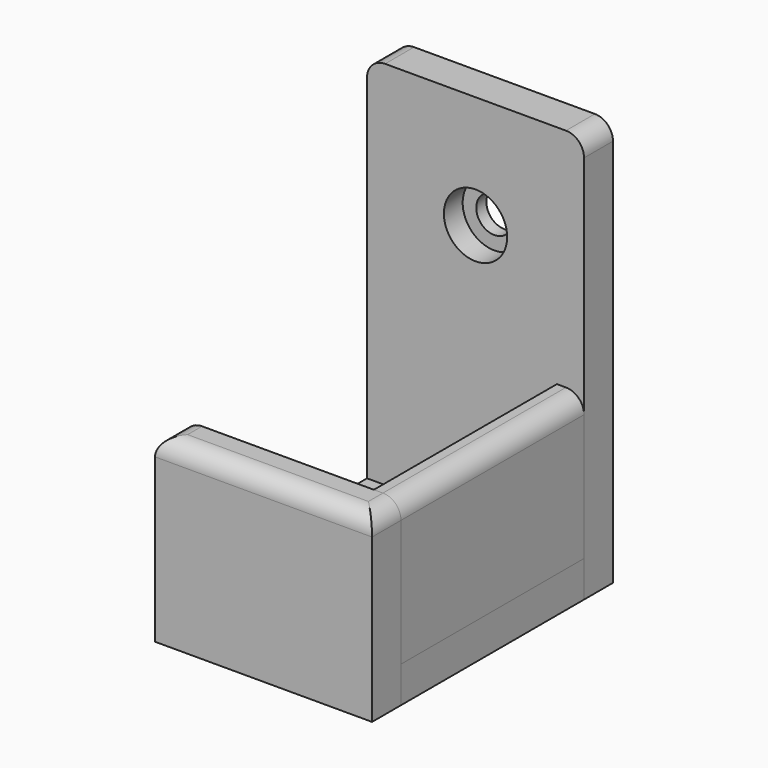
from build123d import *

# Parameters (mm, degrees)
F0_W      = 24
F0_H      = 33.3
F1_DEPTH  = 4
F2_W      = 24
F2_H      = 4
F3_DEPTH  = 45
F4_W      = 24
F4_H      = 4
F5_DEPTH  = 20
F6_R      = 2
F7_DEPTH  = 6
F8_R      = 3.5
F9_DEPTH  = 2.6
F10_R     = 2
F12_W     = 3
F12_H     = 25.3
F13_DEPTH = 16
F14_R     = 2
F14_2_R   = 2
F11_W     = 15
F11_H     = 15
F15_DEPTH = 6


with BuildPart() as f1:
    # F0 (on Top) → F1 (new body)
    with BuildSketch(Plane.XY):
        Rectangle(F0_W, F0_H)
    extrude(amount=F1_DEPTH)

    # F11 (on face) → F15 (cut)
    with BuildSketch(Plane.XY.offset(4)):
        with Locations((-9.5, -0.465378)):
            Rectangle(F11_W, F11_H)
    extrude(amount=-F15_DEPTH, mode=Mode.SUBTRACT)


with BuildPart() as f3:
    # F2 (on face) → F3 (new body)
    with BuildSketch(Plane.XY):
        with Locations((0, 14.65)):
            Rectangle(F2_W, F2_H)
    extrude(amount=F3_DEPTH)

    # F6 (on face) → F7 (cut)
    with BuildSketch(Plane.XZ.offset(-12.65)):
        with Locations((0, 32.526892)):
            Circle(F6_R)
    extrude(amount=-F7_DEPTH, mode=Mode.SUBTRACT)

    # F8 (on face) → F9 (cut)
    with BuildSketch(Plane.XZ.offset(-12.65)):
        with Locations((0, 32.526892)):
            Circle(F8_R)
    extrude(amount=-F9_DEPTH, mode=Mode.SUBTRACT)

    # F10
    f10_edges = [f3.edges().sort_by_distance(p)[0] for p in [
        (-12, 14.65, 45),
        (12, 14.65, 45),
    ]]
    fillet(f10_edges, radius=F10_R)


with BuildPart() as f5:
    # F4 (on face) → F5 (new body)
    with BuildSketch(Plane.XY):
        with Locations((0, -14.65)):
            Rectangle(F4_W, F4_H)
    extrude(amount=F5_DEPTH)

    # F14
    f14_edges = [f5.edges().sort_by_distance(p)[0] for p in [
        (0, -16.65, 20),
        (-12, -14.65, 20),
        (12, -14.65, 20),
    ]]
    fillet(f14_edges, radius=F14_R)


with BuildPart() as f13:
    # F12 (on face) → F13 (new body)
    with BuildSketch(Plane.XY.offset(4)):
        with Locations((10.5, 0)):
            Rectangle(F12_W, F12_H)
    extrude(amount=F13_DEPTH)

    # F14#2
    f14_2_edges = [f13.edges().sort_by_distance(p)[0] for p in [
        (12, 0, 20),
    ]]
    fillet(f14_2_edges, radius=F14_2_R)


solid = Compound([f1.part, f3.part, f5.part, f13.part])
